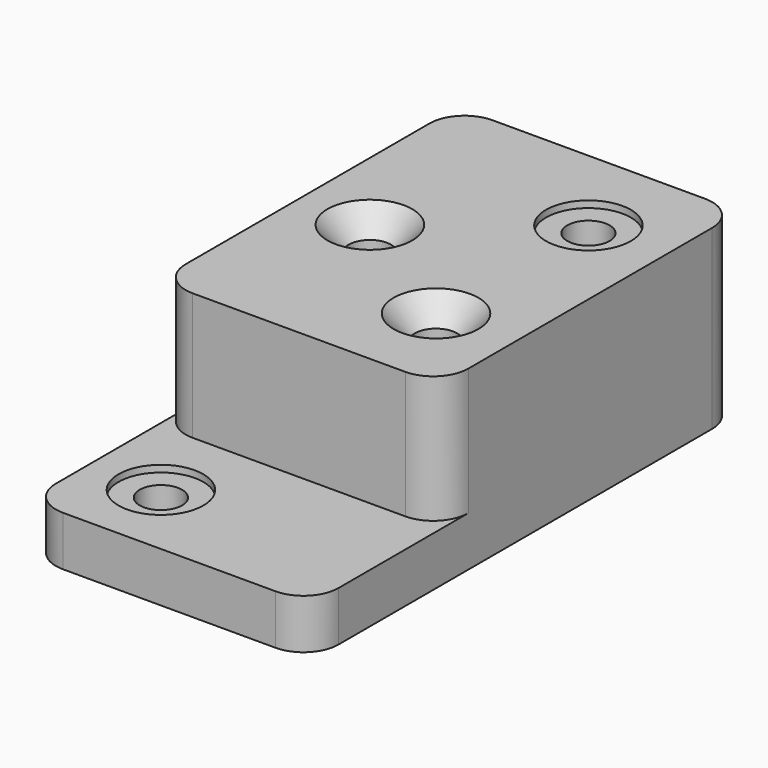
from build123d import *

# Parameters (mm, degrees)
F1_DEPTH       = 241.3
F2_W           = 127
F2_H           = 57.15
F3_DEPTH       = 72.898
F5_D           = 19.05
F5_CBORE_D     = 38.1
F5_CBORE_DEPTH = 3.048
F6_D           = 19.05
F6_CSINK_D     = 38.1
F6_CSINK_ANGLE = 82
F8_D           = 19.05
F8_CBORE_D     = 38.1
F8_CBORE_DEPTH = 3.048
F9_R           = 15.748


with BuildPart() as f1:
    # F0 (on Front) → F1 (new body)
    with BuildSketch(Plane.XZ):
        Polygon((-63.5, 0), (0, 0), (63.5, 0), (63.5, 79.502), (-63.5, 79.502), align=None)
    extrude(amount=F1_DEPTH)

    # F2 (on face) → F3 (cut)
    with BuildSketch(Plane.XZ.offset(241.3)):
        with Locations((0, 50.927)):
            Rectangle(F2_W, F2_H)
    extrude(amount=-F3_DEPTH, mode=Mode.SUBTRACT)

    # F5 (through all)
    with Locations(Plane.XY.offset(79.502)):
        with Locations((28.448, -41.402)):
            CounterBoreHole(F5_D / 2, F5_CBORE_D / 2, F5_CBORE_DEPTH)

    # F6 (through all)
    with Locations(Plane.XY.offset(79.502)):
        with Locations((-31.75, -88.9), (28.448, -127)):
            CounterSinkHole(F6_D / 2, F6_CSINK_D / 2, counter_sink_angle=F6_CSINK_ANGLE)

    # F8 (through all)
    with Locations(Plane.XY.offset(22.352)):
        with Locations((-31.75, -206.248)):
            CounterBoreHole(F8_D / 2, F8_CBORE_D / 2, F8_CBORE_DEPTH)

    # F9
    f9_edges = [f1.edges().sort_by_distance(p)[0] for p in [
        (63.5, -168.402, 50.927),
        (-63.5, -168.402, 50.927),
        (-63.5, -241.3, 11.176),
        (63.5, -241.3, 11.176),
        (63.5, 0, 39.751),
        (-63.5, 0, 39.751),
    ]]
    fillet(f9_edges, radius=F9_R)


solid = f1.part
